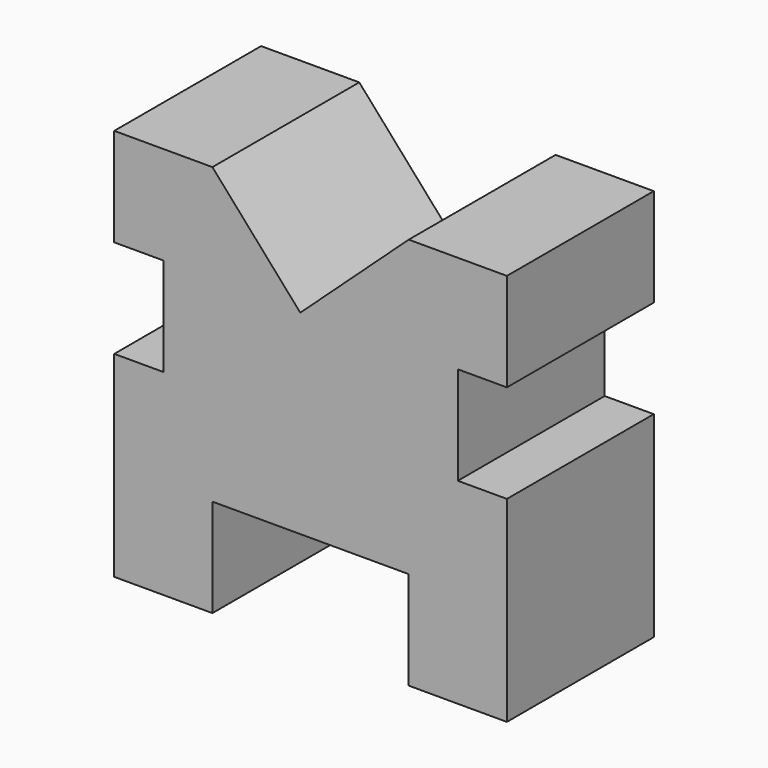
from build123d import *

# Parameters (mm, degrees)
F1_DEPTH = 47.498


with BuildPart() as f1:
    # F0 (on Front) → F1 (new body)
    with BuildSketch(Plane.XZ):
        Polygon((-26.450716, 11.804912), (-13.750716, 11.804912), (-13.750716, 37.204912), (-39.150716, 37.204912), (-67.213629, 11.435105), (-89.950716, 37.204912), (-115.350716, 37.204912), (-115.350716, 11.804912), (-102.650716, 11.804912), (-102.650716, -13.595088), (-115.350716, -13.595088), (-115.350716, -64.395088), (-89.950716, -64.395088), (-89.950716, -38.995088), (-39.150716, -38.995088), (-39.150716, -64.395088), (-13.750716, -64.395088), (-13.750716, -13.595088), (-26.450716, -13.595088), align=None)
    extrude(amount=F1_DEPTH)


solid = f1.part
